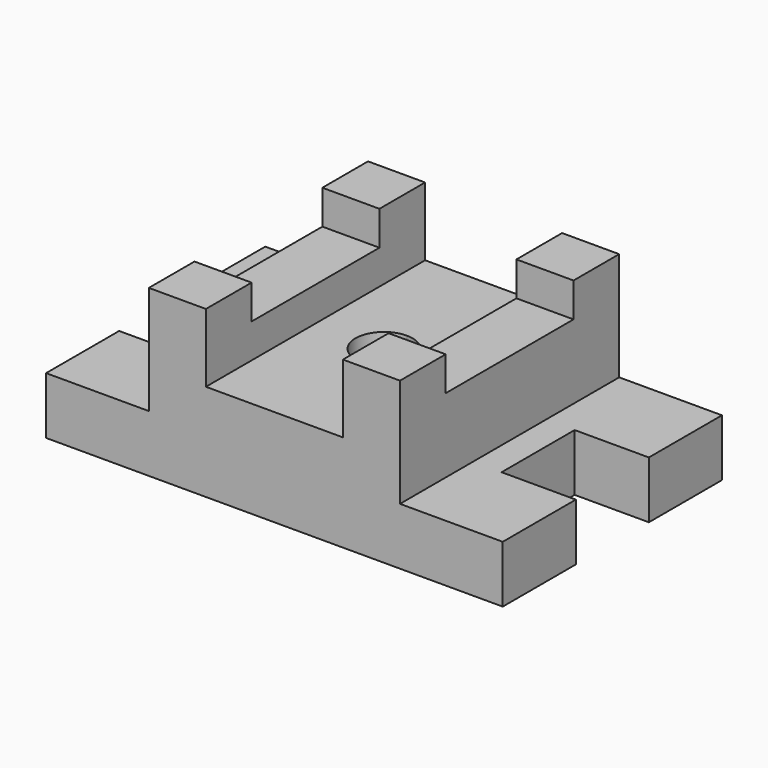
from build123d import *

# Parameters (mm, degrees)
F1_DEPTH = 31.75
F2_DEPTH = 53.975
F0_W     = 31.75
F0_H     = 31.75
F3_DEPTH = 92.075
F0_H_2   = 88.9
F4_DEPTH = 73.025


with BuildPart() as f1:
    # F0 (on Top) → F1 (new body)
    with BuildSketch(Plane.XY):
        Polygon((-69.85, 44.45), (-69.85, 76.2), (-127, 76.2), (-127, 25.4), (-85.725, 25.4), (-85.725, -25.4), (-127, -25.4), (-127, -76.2), (-69.85, -76.2), (-69.85, -44.45), align=None)
        Polygon((127, 76.2), (69.85, 76.2), (69.85, 44.45), (69.85, -44.45), (69.85, -76.2), (127, -76.2), (127, -25.4), (85.725, -25.4), (85.725, 25.4), (127, 25.4), align=None)
    extrude(amount=F1_DEPTH)



with BuildPart() as f2:
    # F0 (on Top) → F2 (new body)
    with BuildSketch(Plane.XY):
        with BuildLine():
            ThreePointArc((0, -15.875), (-15.875, 0), (0, 15.875))
            Line((0, 15.875), (0, 76.2))
            Line((0, 76.2), (-38.1, 76.2))
            Line((-38.1, 76.2), (-38.1, 44.45))
            Line((-38.1, 44.45), (-38.1, -44.45))
            Line((-38.1, -44.45), (-38.1, -76.2))
            Line((-38.1, -76.2), (0, -76.2))
            Line((0, -76.2), (0, -15.875))
        make_face()
        with BuildLine():
            ThreePointArc((0, 15.875), (11.22532, 11.22532), (15.875, 0))
            ThreePointArc((15.875, 0), (11.22532, -11.22532), (0, -15.875))
            Line((0, -15.875), (0, -76.2))
            Line((0, -76.2), (38.1, -76.2))
            Line((38.1, -76.2), (38.1, -44.45))
            Line((38.1, -44.45), (38.1, 44.45))
            Line((38.1, 44.45), (38.1, 76.2))
            Line((38.1, 76.2), (0, 76.2))
            Line((0, 76.2), (0, 15.875))
        make_face()
    extrude(amount=F2_DEPTH)


with BuildPart() as f1_1:
    add(f1.part)

    add(f2.part)  # F3 merges F2
    # F0 (on Top) → F3 (join)
    with BuildSketch(Plane.XY):
        with Locations((-53.975, 60.325)):
            Rectangle(F0_W, F0_H)
        with Locations((-53.975, -60.325)):
            Rectangle(F0_W, F0_H)
        with Locations((53.975, 60.325)):
            Rectangle(F0_W, F0_H)
        with Locations((53.975, -60.325)):
            Rectangle(F0_W, F0_H)
    extrude(amount=F3_DEPTH)

    # F0 (on Top) → F4 (join)
    with BuildSketch(Plane.XY):
        with Locations((53.975, 0)):
            Rectangle(F0_W, F0_H_2)
        with Locations((-53.975, 0)):
            Rectangle(F0_W, F0_H_2)
    extrude(amount=F4_DEPTH)


solid = f1_1.part
